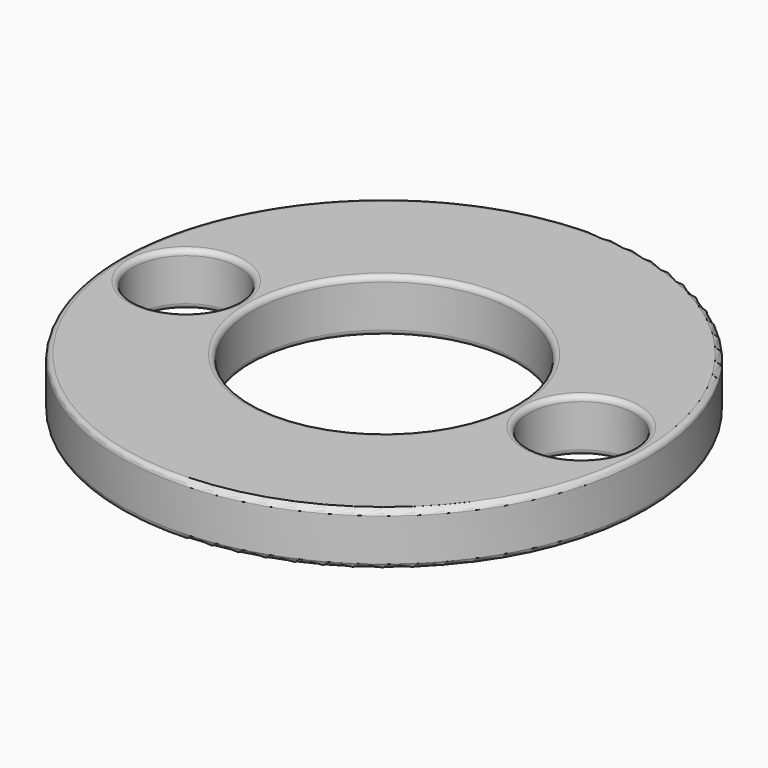
from build123d import *

# Parameters (mm, degrees)
F0_R     = 25
F0_R_2   = 12.5
F1_DEPTH = 5
F2_R     = 5
F3_DEPTH = 25
F4_R     = 0.5
F5_R     = 0.5


with BuildPart() as f1:
    # F0 (on Top) → F1 (new body)
    with BuildSketch(Plane.XY):
        Circle(F0_R)
        Circle(F0_R_2, mode=Mode.SUBTRACT)
    extrude(amount=F1_DEPTH)

    # F2 (on face) → F3 (cut)
    with BuildSketch(Plane.XY.offset(5)):
        with Locations((-18.75, 0)):
            Circle(F2_R)
        with BuildLine():
            ThreePointArc((13.6852347776, 0), (18.6852347776, -5), (23.6852347776, 0))
            Line((23.6852347776, 0), (13.6852347776, 0))
        make_face()
        with BuildLine():
            Line((13.6852347776, 0), (23.6852347776, 0))
            ThreePointArc((23.6852347776, 0), (18.6852347776, 5), (13.6852347776, 0))
        make_face()
    extrude(amount=-F3_DEPTH, mode=Mode.SUBTRACT)

    # F4
    f4_edges = [f1.edges().sort_by_distance(p)[0] for p in [
        (-25, 0, 5),
        (-23.75, 0, 5),
        (-12.5, 0, 5),
        (13.685235, 0, 5),
    ]]
    fillet(f4_edges, radius=F4_R)

    # F5
    f5_edges = [f1.edges().sort_by_distance(p)[0] for p in [
        (-25, 0, 0),
        (-12.5, 0, 0),
        (-23.75, 0, 0),
        (13.685235, 0, 0),
    ]]
    fillet(f5_edges, radius=F5_R)


solid = f1.part
